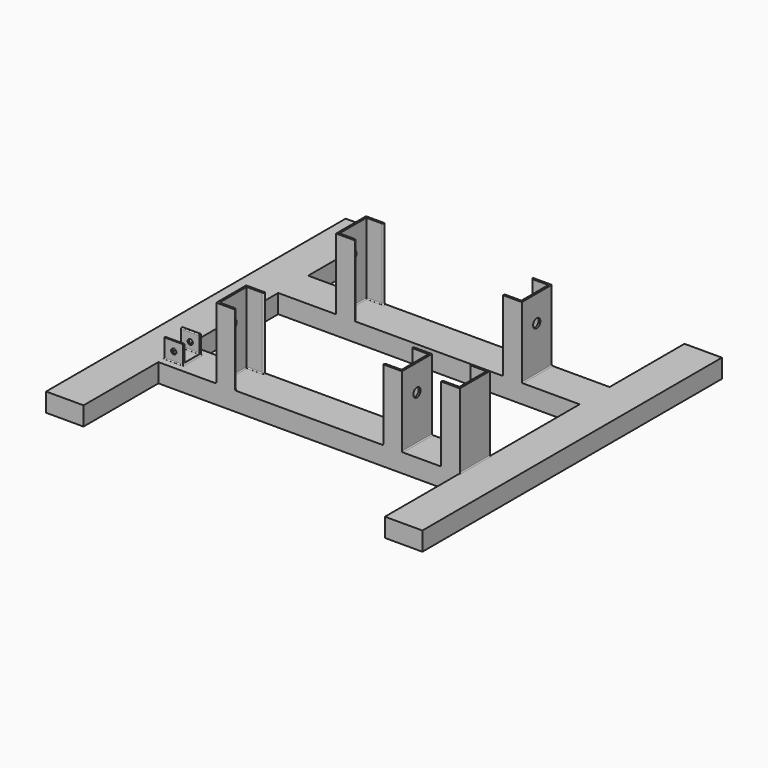
from build123d import *

# Parameters (mm, degrees)
F0_W      = 805
F0_H      = 100
F0_W_2    = 100
F0_H_2    = 150
F1_DEPTH  = 50
F2_T      = -5
F3_DEPTH  = 5
F5_DEPTH  = 190
F7_D      = 24
F11_W     = 50
F11_H     = 50
F12_DEPTH = 5
F11_H_2   = 5
F13_DEPTH = 50
F14_DEPTH = 200
F16_D     = 14
F17_R     = 2.5


with BuildPart() as f1:
    # F0 (on Top) → F1 (new body)
    with BuildSketch(Plane.XY):
        with Locations((0, 200)):
            Rectangle(F0_W, F0_H)
        Polygon((-402.5, 50), (-402.5, 150), (-402.5, 250), (-402.5, 350), (-502.5, 350), (-502.5, 50), align=None)
        Polygon((402.5, 250), (402.5, 150), (402.5, 50), (502.5, 50), (502.5, 350), (402.5, 350), align=None)
        Polygon((-402.5, 0), (-402.5, 50), (-502.5, 50), (-502.5, 0), (-502.5, -50), (-402.5, -50), align=None)
        Polygon((502.5, 50), (402.5, 50), (402.5, 0), (402.5, -50), (502.5, -50), (502.5, 0), align=None)
        with Locations((-452.5, 425)):
            Rectangle(F0_W_2, F0_H_2)
        with Locations((452.5, 425)):
            Rectangle(F0_W_2, F0_H_2)
        Polygon((-402.5, -150), (-402.5, -50), (-502.5, -50), (-502.5, -350), (-402.5, -350), (-402.5, -250), align=None)
        Polygon((502.5, -50), (402.5, -50), (402.5, -150), (402.5, -250), (402.5, -350), (502.5, -350), align=None)
        with Locations((0, -200)):
            Rectangle(F0_W, F0_H)
        with Locations((-452.5, -425)):
            Rectangle(F0_W_2, F0_H_2)
        with Locations((452.5, -425)):
            Rectangle(F0_W_2, F0_H_2)
    extrude(amount=F1_DEPTH)

    # F2
    f2_openings = [f1.faces().sort_by_distance(p)[0] for p in [
        (0, 164.177535, 0),
    ]]
    offset(amount=F2_T, openings=f2_openings, kind=Kind.INTERSECTION)

    # F0 (on Top) → F3 (join)
    with BuildSketch(Plane.XY):
        with Locations((-452.5, -425)):
            Rectangle(F0_W_2, F0_H_2)
        Polygon((-402.5, 0), (-402.5, 50), (-502.5, 50), (-502.5, 0), (-502.5, -50), (-402.5, -50), align=None)
        with Locations((-452.5, 425)):
            Rectangle(F0_W_2, F0_H_2)
        with Locations((452.5, -425)):
            Rectangle(F0_W_2, F0_H_2)
        Polygon((502.5, 50), (402.5, 50), (402.5, 0), (402.5, -50), (502.5, -50), (502.5, 0), align=None)
        with Locations((452.5, 425)):
            Rectangle(F0_W_2, F0_H_2)
    extrude(amount=F3_DEPTH)


with BuildPart() as f5:
    # F4 (on face) → F5 (new body)
    with BuildSketch(Plane.XY.offset(50)):
        with BuildLine():
            Line((198, -250), (248, -250))
            Line((248, -250), (248, -150))
            Line((248, -150), (198, -150))
            Line((198, -150), (198, -150.9999952316))
            ThreePointArc((198, -150.9999952316), (199.1715728753, -153.8284223564), (202, -154.9999952316))
            Line((202, -154.9999952316), (243.0000047684, -154.9999952316))
            Line((243.0000047684, -154.9999952316), (243.0000047684, -245.0000047684))
            Line((243.0000047684, -245.0000047684), (202, -245.0000047684))
            ThreePointArc((202, -245.0000047684), (199.1715728753, -246.1715776436), (198, -249.0000047684))
            Line((198, -249.0000047684), (198, -250))
        make_face()
    extrude(amount=F5_DEPTH)

    # F7 (through all)
    with Locations(Plane.YZ.offset(248)):
        with Locations((-200, 170)):
            Hole(F7_D / 2)


with BuildPart() as f8_1:
    # F8: instance of F5
    add(f5.part.mirror(Plane.YZ))


with BuildPart() as f9_1:
    # F9: instance of F5
    add(f5.part.mirror(Plane.XZ))


with BuildPart() as f9_2:
    # F9: instance of F8_1
    add(f8_1.part.mirror(Plane.XZ))


with BuildPart() as f8_1_1:
    add(f8_1.part)

    # F10: union F9_2, F5, F9_1, F1
    add(f9_2.part)
    add(f5.part)
    add(f9_1.part)
    add(f1.part)

    # F11 (on face) → F12 (join)
    with BuildSketch(Plane.XY.offset(50)):
        with Locations((-377.5, -200)):
            Rectangle(F11_W, F11_H)
    extrude(amount=F12_DEPTH)

    # F11 (on face) → F13 (join)
    with BuildSketch(Plane.XY.offset(50)):
        with Locations((-377.5, -227.5)):
            Rectangle(F11_W, F11_H_2)
        with Locations((-377.5, -172.5)):
            Rectangle(F11_W, F11_H_2)
    extrude(amount=F13_DEPTH)

    # F11 (on face) → F14 (join)
    with BuildSketch(Plane.XY.offset(50)):
        with BuildLine():
            Line((402.5, -250), (402.5, -150))
            Line((402.5, -150), (352.5, -150))
            Line((352.5, -150), (352.5, -151.0000011921))
            ThreePointArc((352.5, -151.0000011921), (353.6715728753, -153.8284283168), (356.5, -155.0000011921))
            Line((356.5, -155.0000011921), (397.4999988079, -155.0000011921))
            Line((397.4999988079, -155.0000011921), (397.4999988079, -244.9999988079))
            Line((397.4999988079, -244.9999988079), (356.5, -244.9999988079))
            ThreePointArc((356.5, -244.9999988079), (353.6715728753, -246.1715716832), (352.5, -248.9999988079))
            Line((352.5, -248.9999988079), (352.5, -250))
            Line((352.5, -250), (402.5, -250))
        make_face()
    extrude(amount=F14_DEPTH)

    # F16 (through all)
    with Locations(Plane.XZ.offset(230)):
        with Locations((-377.5, 75)):
            Hole(F16_D / 2)

    # F17
    f17_edges = [f8_1_1.edges().sort_by_distance(p)[0] for p in [
        (-377.5, -175, 55),
        (-377.5, -225, 55),
        (-377.5, -225, 100),
        (-377.5, -175, 100),
        (-377.5, -230, 50),
        (-402.5, -200, 50),
        (-377.5, -170, 50),
        (-352.5, -200, 50),
        (-248, -200, 50),
        (-248, 200, 50),
        (243.000005, -200, 50),
        (222.500002, -154.999995, 50),
        (199.171573, -153.828422, 50),
        (222.500002, -245.000005, 50),
        (199.171573, -246.171578, 50),
        (222.500002, 245.000005, 50),
        (199.171573, 246.171578, 50),
        (243.000005, 200, 50),
        (222.500002, 154.999995, 50),
        (199.171573, 153.828422, 50),
        (248, 200, 50),
        (248, -200, 50),
        (376.999999, -155.000001, 50),
        (353.671573, -153.828428, 50),
        (397.499999, -200, 50),
        (376.999999, -244.999999, 50),
        (353.671573, -246.171572, 50),
        (402.5, -200, 50),
        (-222.500002, 154.999995, 50),
        (-199.171573, 153.828422, 50),
        (-243.000005, 200, 50),
        (-222.500002, 245.000005, 50),
        (-199.171573, 246.171578, 50),
        (-222.500002, -154.999995, 50),
        (-199.171573, -153.828422, 50),
        (-222.500002, -245.000005, 50),
        (-199.171573, -246.171578, 50),
        (-243.000005, -200, 50),
    ]]
    fillet(f17_edges, radius=F17_R)


solid = f8_1_1.part
